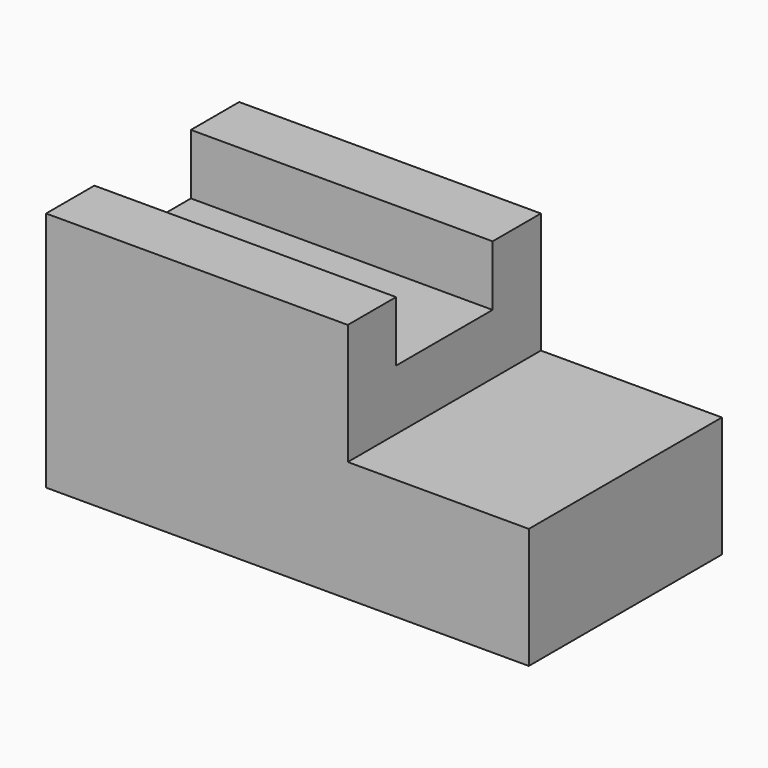
from build123d import *

# Parameters (mm, degrees)
F0_W     = 127
F0_H     = 25.4
F1_DEPTH = 101.6
F2_DEPTH = 25.4
F3_W     = 127
F3_H     = 25.4
F4_DEPTH = 101.6


with BuildPart() as f1:
    # F0 (on Front) → F1 (new body)
    with BuildSketch(Plane.XZ):
        Polygon((0, 50.8), (0, 0), (203.2, 0), (203.2, 50.8), (127, 50.8), align=None)
        with Locations((63.5, 63.5)):
            Rectangle(F0_W, F0_H)
    extrude(amount=F1_DEPTH)

    # F0 (on Front) → F2 (join)
    with BuildSketch(Plane.XZ):
        with Locations((63.5, 88.9)):
            Rectangle(F0_W, F0_H)
    extrude(amount=F2_DEPTH)

    # F3 (on Top) → F4 (join)
    with BuildSketch(Plane.XY):
        with Locations((63.5, -88.9)):
            Rectangle(F3_W, F3_H)
    extrude(amount=F4_DEPTH)


solid = f1.part
